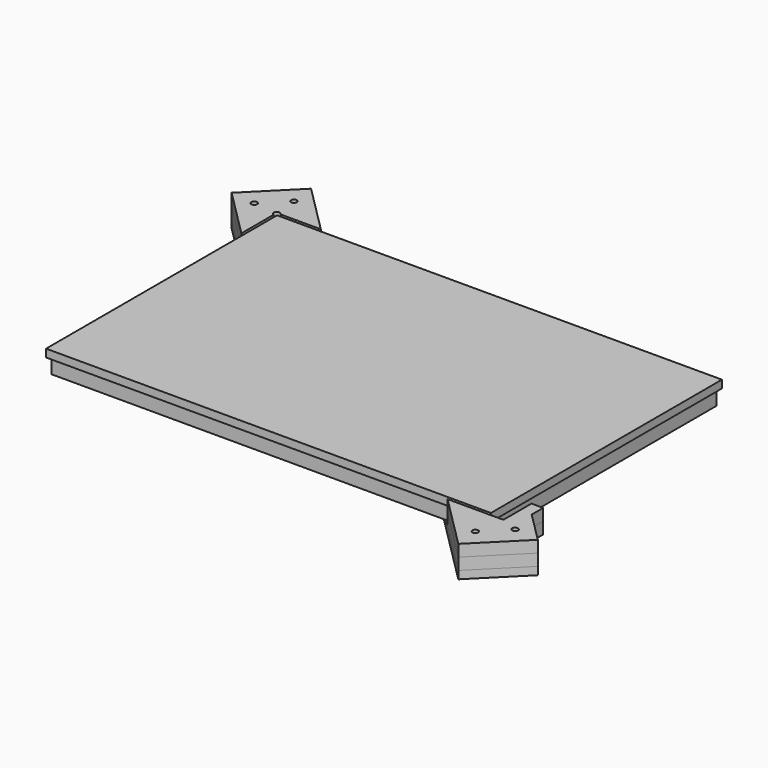
from build123d import *

# Parameters (mm, degrees)
F1_W      = 225
F1_H      = 145
F1_R      = 1.5
F2_DEPTH  = 7.67
F3_START  = 7.67
F1_W_2    = 228
F1_H_2    = 148
F3_DEPTH  = 4
F4_R      = 1.5
F5_DEPTH  = 4
F6_DEPTH  = 4
F7_SIZE   = 3
F7_2_SIZE = 3
F8_R      = 1.5
F9_DEPTH  = 6
F10_START = 6
F10_DEPTH = 6
F11_R     = 1.5
F12_DEPTH = 6
F13_START = -6
F13_DEPTH = 6


with BuildPart() as f2:
    # F1 (on Top) → F2 (new body)
    with BuildSketch(Plane.XY):
        with Locations((112.5, 72.5)):
            Rectangle(F1_W, F1_H)
        with Locations((220, 5)):
            Circle(F1_R, mode=Mode.SUBTRACT)
        with Locations((5, 140)):
            Circle(F1_R, mode=Mode.SUBTRACT)
        with Locations((112.5, 72.5)):
            Circle(F1_R, mode=Mode.SUBTRACT)
    extrude(amount=F2_DEPTH)


with BuildPart() as f3:
    # F1 (on Top) → F3 (new body)
    with BuildSketch(Plane.XY.offset(F3_START)):
        with Locations((112.5, 72.5)):
            Rectangle(F1_W_2, F1_H_2)
        with Locations((112.5, 72.5)):
            Rectangle(F1_W, F1_H, mode=Mode.SUBTRACT)
        with Locations((112.5, 72.5)):
            Rectangle(F1_W, F1_H)
        with Locations((220, 5)):
            Circle(F1_R, mode=Mode.SUBTRACT)
        with Locations((5, 140)):
            Circle(F1_R, mode=Mode.SUBTRACT)
        with Locations((112.5, 72.5)):
            Circle(F1_R, mode=Mode.SUBTRACT)
        with Locations((5, 140)):
            Circle(F1_R)
        with Locations((220, 5)):
            Circle(F1_R)
        with Locations((112.5, 72.5)):
            Circle(F1_R)
    extrude(amount=F3_DEPTH)


with BuildPart() as f5:
    # F4 (on face) → F5 (new body)
    with BuildSketch(Plane(origin=(0, 0, 0), x_dir=(1, 0, 0), z_dir=(0, 0, -1))):
        with BuildLine():
            Line((2.1213203436, -145), (22.627416998, -145))
            Line((22.627416998, -145), (51.6690475583, -115.9583694397))
            Line((51.6690475583, -115.9583694397), (29.0416305603, -93.3309524417))
            Line((29.0416305603, -93.3309524417), (0, -122.372583002))
            Line((0, -122.372583002), (0, -142.8786796564))
            Line((0, -142.8786796564), (3.9393398213, -138.9393398351))
            Line((3.9393398213, -138.9393398351), (11.0104076401, -131.8682720164))
            ThreePointArc((11.0104076401, -131.8682720164), (12.6450929604, -131.5431128894), (13.5710678119, -132.9289321881))
            ThreePointArc((13.5710678119, -132.9289321881), (13.4568871106, -133.5029573367), (13.1317279836, -133.9895923599))
            Line((13.1317279836, -133.9895923599), (6.0606602025, -141.060660141))
            Line((6.0606602025, -141.060660141), (2.1213203436, -145))
        make_face()
        with BuildLine():
            Line((-4.8994949366, -172.5269119346), (22.627416998, -145))
            Line((22.627416998, -145), (2.1213203436, -145))
            Line((2.1213203436, -145), (-1.0104076401, -148.1317279836))
            ThreePointArc((-1.0104076401, -148.1317279836), (-3.1317279836, -148.1317279836), (-3.1317279836, -146.0104076401))
            Line((-3.1317279836, -146.0104076401), (0, -142.8786796564))
            Line((0, -142.8786796564), (0, -122.372583002))
            Line((0, -122.372583002), (-27.5269119346, -149.8994949366))
            Line((-27.5269119346, -149.8994949366), (-4.8994949366, -172.5269119346))
        make_face()
        with Locations((-14.7989898732, -148.4852813742)):
            Circle(F4_R, mode=Mode.SUBTRACT)
        with Locations((-3.4852813742, -159.7989898732)):
            Circle(F4_R, mode=Mode.SUBTRACT)
    extrude(amount=F5_DEPTH)

    # F7#2
    f7_2_edges = [f5.edges().sort_by_distance(p)[0] for p in [
        (-16.29899, 148.485281, -4),
        (-4.985281, 159.79899, -4),
    ]]
    chamfer(f7_2_edges, length=F7_2_SIZE)


with BuildPart() as f6:
    # F4 (on face) → F6 (new body)
    with BuildSketch(Plane(origin=(0, 0, 0), x_dir=(1, 0, 0), z_dir=(0, 0, -1))):
        with BuildLine():
            Line((225, -2.1213203436), (225, -22.627416998))
            Line((225, -22.627416998), (256.0624458405, 8.4350288425))
            Line((256.0624458405, 8.4350288425), (233.4350288425, 31.0624458405))
            Line((233.4350288425, 31.0624458405), (202.372583002, 0))
            Line((202.372583002, 0), (222.8786796564, 0))
            Line((222.8786796564, 0), (226.0104076401, 3.1317279836))
            ThreePointArc((226.0104076401, 3.1317279836), (227.6450929604, 3.4568871106), (228.5710678119, 2.0710678119))
            ThreePointArc((228.5710678119, 2.0710678119), (228.4568871106, 1.4970426633), (228.1317279836, 1.0104076401))
            Line((228.1317279836, 1.0104076401), (225, -2.1213203436))
        make_face()
        with Locations((232.0208152802, 18.3345237792)):
            Circle(F4_R, mode=Mode.SUBTRACT)
        with Locations((243.3345237792, 7.0208152802)):
            Circle(F4_R, mode=Mode.SUBTRACT)
        with BuildLine():
            Line((173.3309524417, -29.0416305603), (195.9583694397, -51.6690475583))
            Line((195.9583694397, -51.6690475583), (225, -22.627416998))
            Line((225, -22.627416998), (225, -2.1213203436))
            Line((225, -2.1213203436), (221.0606601718, -6.0606601718))
            Line((221.0606601718, -6.0606601718), (213.9895923599, -13.1317279836))
            ThreePointArc((213.9895923599, -13.1317279836), (211.8682720164, -13.1317279836), (211.8682720164, -11.0104076401))
            Line((211.8682720164, -11.0104076401), (218.9393398374, -3.939339819))
            Line((218.9393398374, -3.939339819), (222.8786796564, 0))
            Line((222.8786796564, 0), (202.372583002, 0))
            Line((202.372583002, 0), (173.3309524417, -29.0416305603))
        make_face()
    extrude(amount=F6_DEPTH)

    # F7
    f7_edges = [f6.edges().sort_by_distance(p)[0] for p in [
        (230.520815, -18.334524, -4),
        (241.834524, -7.020815, -4),
    ]]
    chamfer(f7_edges, length=F7_SIZE)


with BuildPart() as f9:
    # F8 (on face) → F9 (new body)
    with BuildSketch(Plane.XY):
        Polygon((20.127416998, 147.5), (-4.8994949366, 172.5269119346), (-27.5269119346, 149.8994949366), (-2.5, 124.872583002), (-2.5, 147.5), align=None)
        with Locations((-14.7989898732, 148.4852813742)):
            Circle(F8_R, mode=Mode.SUBTRACT)
        with Locations((-3.4852813742, 159.7989898732)):
            Circle(F8_R, mode=Mode.SUBTRACT)
    extrude(amount=F9_DEPTH)


with BuildPart() as f10:
    # F8 (on face) → F10 (new body)
    with BuildSketch(Plane.XY.offset(F10_START)):
        with BuildLine():
            Line((20.127416998, 147.5), (-4.8994949366, 172.5269119346))
            Line((-4.8994949366, 172.5269119346), (-27.5269119346, 149.8994949366))
            Line((-27.5269119346, 149.8994949366), (-2.5, 124.872583002))
            Line((-2.5, 124.872583002), (-2.5, 145.3786796564))
            Line((-2.5, 145.3786796564), (-3.1317279836, 146.0104076401))
            ThreePointArc((-3.1317279836, 146.0104076401), (-3.1317279836, 148.1317279836), (-1.0104076401, 148.1317279836))
            Line((-1.0104076401, 148.1317279836), (-0.3786796564, 147.5))
            Line((-0.3786796564, 147.5), (20.127416998, 147.5))
        make_face()
        with Locations((-14.7989898732, 148.4852813742)):
            Circle(F8_R, mode=Mode.SUBTRACT)
        with Locations((-3.4852813742, 159.7989898732)):
            Circle(F8_R, mode=Mode.SUBTRACT)
    extrude(amount=F10_DEPTH)


with BuildPart() as f12:
    # F11 (on face) → F12 (new body)
    with BuildSketch(Plane(origin=(0, 0, 0), x_dir=(1, 0, 0), z_dir=(0, 0, -1))):
        with BuildLine():
            Line((233.4350288425, 31.0624458405), (205.872583002, 3.5))
            Line((205.872583002, 3.5), (226.6148301526, 3.5))
            ThreePointArc((226.6148301526, 3.5), (227.0710678119, 3.5710678119), (227.5273054711, 3.5))
            Line((227.5273054711, 3.5), (234.5, 3.5))
            Line((234.5, 3.5), (234.5, -13.127416998))
            Line((234.5, -13.127416998), (240.5, -7.127416998))
            Line((240.5, -7.127416998), (256.0624458405, 8.4350288425))
            Line((256.0624458405, 8.4350288425), (233.4350288425, 31.0624458405))
        make_face()
        with Locations((243.3345237792, 7.0208152802)):
            Circle(F11_R, mode=Mode.SUBTRACT)
        with Locations((232.0208152802, 18.3345237792)):
            Circle(F11_R, mode=Mode.SUBTRACT)
        Polygon((240.5, -14.5), (240.5, -7.127416998), (234.5, -13.127416998), (234.5, -14.5), align=None)
    extrude(amount=-F12_DEPTH)


with BuildPart() as f13:
    # F11 (on face) → F13 (new body)
    with BuildSketch(Plane(origin=(0, 0, 0), x_dir=(1, 0, 0), z_dir=(0, 0, -1)).offset(F13_START)):
        with BuildLine():
            Line((233.4350288425, 31.0624458405), (205.872583002, 3.5))
            Line((205.872583002, 3.5), (226.6148301526, 3.5))
            ThreePointArc((226.6148301526, 3.5), (227.0710678119, 3.5710678119), (227.5273054711, 3.5))
            Line((227.5273054711, 3.5), (234.5, 3.5))
            Line((234.5, 3.5), (234.5, -13.127416998))
            Line((234.5, -13.127416998), (240.5, -7.127416998))
            Line((240.5, -7.127416998), (256.0624458405, 8.4350288425))
            Line((256.0624458405, 8.4350288425), (233.4350288425, 31.0624458405))
        make_face()
        with Locations((243.3345237792, 7.0208152802)):
            Circle(F11_R, mode=Mode.SUBTRACT)
        with Locations((232.0208152802, 18.3345237792)):
            Circle(F11_R, mode=Mode.SUBTRACT)
        Polygon((240.5, -14.5), (240.5, -7.127416998), (234.5, -13.127416998), (234.5, -14.5), align=None)
    extrude(amount=-F13_DEPTH)


solid = Compound([f2.part, f3.part, f5.part, f6.part, f9.part, f10.part, f12.part, f13.part])
